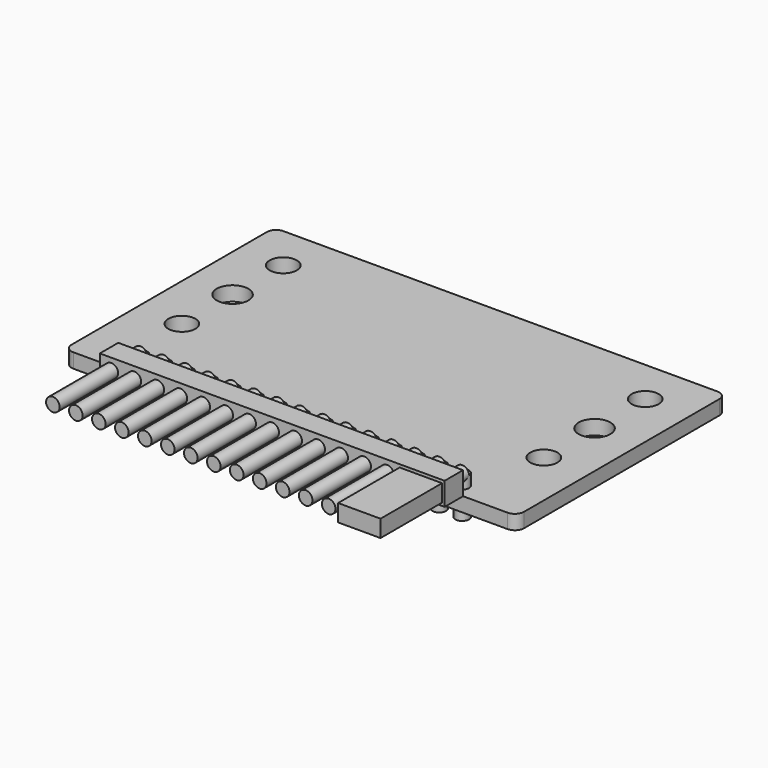
from build123d import *

# Parameters (mm, degrees)
F0_W      = 50
F0_H      = 29
F0_R      = 0.635
F0_R_2    = 1.5
F0_R_3    = 1.75
F1_DEPTH  = 1.6
F2_R      = 1
F3_R      = 0.75
F4_DEPTH  = 1.25
F5_DEPTH  = 3.05
F7_R      = 0.75
F8_DEPTH  = 12.1
F10_W     = 38.1
F10_H     = 2.54
F11_DEPTH = 2.54
F12_W     = 4.6887147206
F12_H     = 1.8870429106
F13_DEPTH = 8.5


with BuildPart() as f1:
    # F0 (on Top) → F1 (new body)
    with BuildSketch(Plane.XY):
        with Locations((25, 14.5)):
            Rectangle(F0_W, F0_H)
        with Locations((7.22, 1.5)):
            Circle(F0_R, mode=Mode.SUBTRACT)
        with Locations((9.76, 1.5)):
            Circle(F0_R, mode=Mode.SUBTRACT)
        with Locations((12.3, 1.5)):
            Circle(F0_R, mode=Mode.SUBTRACT)
        with Locations((14.84, 1.5)):
            Circle(F0_R, mode=Mode.SUBTRACT)
        with Locations((17.38, 1.5)):
            Circle(F0_R, mode=Mode.SUBTRACT)
        with Locations((19.92, 1.5)):
            Circle(F0_R, mode=Mode.SUBTRACT)
        with Locations((22.46, 1.5)):
            Circle(F0_R, mode=Mode.SUBTRACT)
        with Locations((5, 10)):
            Circle(F0_R_2, mode=Mode.SUBTRACT)
        with Locations((25, 1.5)):
            Circle(F0_R, mode=Mode.SUBTRACT)
        with Locations((27.54, 1.5)):
            Circle(F0_R, mode=Mode.SUBTRACT)
        with Locations((30.08, 1.5)):
            Circle(F0_R, mode=Mode.SUBTRACT)
        with Locations((32.62, 1.5)):
            Circle(F0_R, mode=Mode.SUBTRACT)
        with Locations((35.16, 1.5)):
            Circle(F0_R, mode=Mode.SUBTRACT)
        with Locations((37.7, 1.5)):
            Circle(F0_R, mode=Mode.SUBTRACT)
        with Locations((40.24, 1.5)):
            Circle(F0_R, mode=Mode.SUBTRACT)
        with Locations((42.78, 1.5)):
            Circle(F0_R, mode=Mode.SUBTRACT)
        with Locations((45, 10)):
            Circle(F0_R_2, mode=Mode.SUBTRACT)
        with Locations((5, 17)):
            Circle(F0_R_3, mode=Mode.SUBTRACT)
        with Locations((5, 24)):
            Circle(F0_R_2, mode=Mode.SUBTRACT)
        with Locations((45, 17)):
            Circle(F0_R_3, mode=Mode.SUBTRACT)
        with Locations((45, 24)):
            Circle(F0_R_2, mode=Mode.SUBTRACT)
    extrude(amount=F1_DEPTH)

    # F2
    f2_edges = [f1.edges().sort_by_distance(p)[0] for p in [
        (0, 0, 0.8),
        (50, 0, 0.8),
        (50, 29, 0.8),
        (0, 29, 0.8),
    ]]
    fillet(f2_edges, radius=F2_R)

    # F3 (on face) → F4 (join)
    with BuildSketch(Plane.XY.offset(1.6)):
        with Locations((9.76, 1.5)):
            Circle(F3_R)
        with Locations((12.3, 1.5)):
            Circle(F3_R)
        with Locations((14.84, 1.5)):
            Circle(F3_R)
        with Locations((17.38, 1.5)):
            Circle(F3_R)
        with Locations((19.92, 1.5)):
            Circle(F3_R)
        with Locations((22.46, 1.5)):
            Circle(F3_R)
        with Locations((25, 1.5)):
            Circle(F3_R)
        with Locations((27.54, 1.5)):
            Circle(F3_R)
        with Locations((30.08, 1.5)):
            Circle(F3_R)
        with Locations((32.62, 1.5)):
            Circle(F3_R)
        with Locations((35.16, 1.5)):
            Circle(F3_R)
        with Locations((37.7, 1.5)):
            Circle(F3_R)
        with Locations((40.24, 1.5)):
            Circle(F3_R)
        with Locations((42.78, 1.5)):
            Circle(F3_R)
        with Locations((7.22, 1.5)):
            Circle(F3_R)
    extrude(amount=F4_DEPTH)

    # F3 (on face) → F5 (join)
    with BuildSketch(Plane.XY.offset(1.6)):
        with Locations((9.76, 1.5)):
            Circle(F3_R)
        with Locations((12.3, 1.5)):
            Circle(F3_R)
        with Locations((14.84, 1.5)):
            Circle(F3_R)
        with Locations((17.38, 1.5)):
            Circle(F3_R)
        with Locations((19.92, 1.5)):
            Circle(F3_R)
        with Locations((22.46, 1.5)):
            Circle(F3_R)
        with Locations((25, 1.5)):
            Circle(F3_R)
        with Locations((27.54, 1.5)):
            Circle(F3_R)
        with Locations((30.08, 1.5)):
            Circle(F3_R)
        with Locations((32.62, 1.5)):
            Circle(F3_R)
        with Locations((35.16, 1.5)):
            Circle(F3_R)
        with Locations((37.7, 1.5)):
            Circle(F3_R)
        with Locations((40.24, 1.5)):
            Circle(F3_R)
        with Locations((42.78, 1.5)):
            Circle(F3_R)
        with Locations((7.22, 1.5)):
            Circle(F3_R)
    extrude(amount=-F5_DEPTH)

    # F7 (on offset) → F8 (join)
    with BuildSketch(Plane.XZ.offset(-1.5)):
        with Locations((9.76, 2.85)):
            Circle(F7_R)
        with Locations((12.3, 2.85)):
            Circle(F7_R)
        with Locations((14.84, 2.85)):
            Circle(F7_R)
        with Locations((17.38, 2.85)):
            Circle(F7_R)
        with Locations((19.92, 2.85)):
            Circle(F7_R)
        with Locations((22.46, 2.85)):
            Circle(F7_R)
        with Locations((25, 2.85)):
            Circle(F7_R)
        with Locations((27.54, 2.85)):
            Circle(F7_R)
        with Locations((30.08, 2.85)):
            Circle(F7_R)
        with Locations((32.62, 2.85)):
            Circle(F7_R)
        with Locations((35.16, 2.85)):
            Circle(F7_R)
        with Locations((37.7, 2.85)):
            Circle(F7_R)
        with Locations((40.24, 2.85)):
            Circle(F7_R)
        with Locations((42.78, 2.85)):
            Circle(F7_R)
        with Locations((7.22, 2.85)):
            Circle(F7_R)
    extrude(amount=F8_DEPTH)

    # F10 (on offset) → F11 (join)
    with BuildSketch(Plane.XZ.offset(2.52)):
        with Locations((25, 2.85)):
            Rectangle(F10_W, F10_H)
    extrude(amount=-F11_DEPTH)

    # F12 (on face) → F13 (join)
    with BuildSketch(Plane.XZ.offset(2.52)):
        with Locations((41.4229617903, 2.85)):
            Rectangle(F12_W, F12_H)
    extrude(amount=F13_DEPTH)


solid = f1.part
